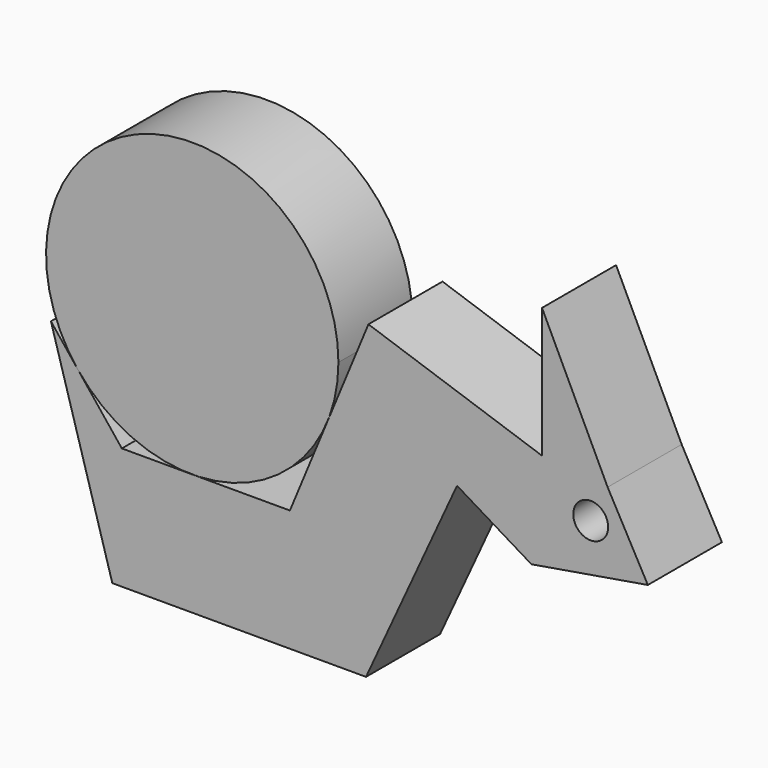
from build123d import *

# Parameters (mm, degrees)
F0_R     = 4.78866
F1_R     = 40.105801
F2_DEPTH = 25.4


with BuildPart() as f2:
    # F0 (on Front) + F1 (on Front) → F2 (new body)
    with BuildSketch(Plane.XZ):
        Polygon((38.60104, -41.955581), (63.569158, 12.343785), (83.981179, 0), (95.885742, 2.006097), (115.920253, 5.382213), (104.886755, 25.416719), (86.88473, 62.872529), (86.88473, 27.158849), (39.266489, 43.418728), (21.264469, 0), (17.720622, -8.564746), (-28.386259, -8.564746), (-47.840055, 15.825094), (-30.999456, -41.955581), align=None)
        with Locations((100.241072, 15.834998)):
            Circle(F0_R, mode=Mode.SUBTRACT)
    with BuildSketch(Plane.XZ):
        with Locations((-9.07452, 31.541056)):
            Circle(F1_R)
    extrude(amount=F2_DEPTH)


solid = f2.part
